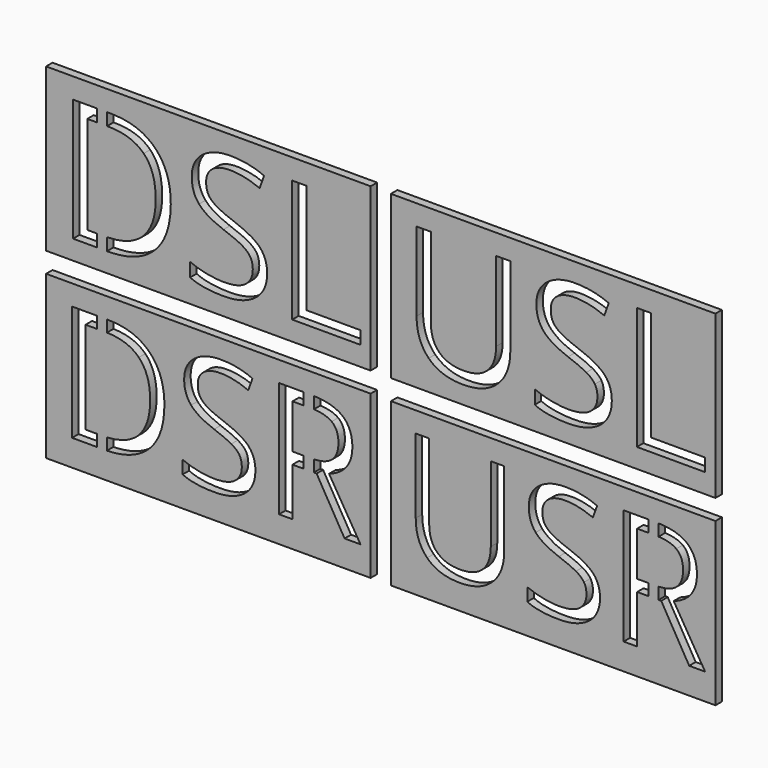
from build123d import *

# Parameters (mm, degrees)
F0_W     = 2.9770169103
F0_H     = 30.6202659856
F0_W_2   = 3.175
F0_H_2   = 3.8589924256
F0_H_3   = 3.223656861
F0_H_4   = 6.0714814162
F1_DEPTH = 2.54
F0_W_3   = 101.6
F0_H_5   = 50.8
F0_H_6   = 6.3803746476
F0_W_4   = 3.520326792
F0_H_7   = 28.909238317
F0_W_5   = 3.5098719441
F0_H_8   = 13.8368326958
F0_H_9   = 1.0552398543
F0_H_10  = 1.0559791915
F0_W_6   = 3.5678618651
F0_H_11  = 13.8363557305


with BuildPart() as f1:
    # F0 (on Front) → F1 (new body)
    with BuildSketch(Plane.XZ):
        with BuildLine():
            Line((-104.775, 53.975), (-104.775, 3.175))
            Line((-104.775, 3.175), (-88.9, 3.175))
            Line((-88.9, 3.175), (-88.9, 9.2464814162))
            Line((-88.9, 9.2464814162), (-96.3316364277, 9.2464814162))
            Line((-96.3316364277, 9.2464814162), (-96.3316364277, 47.576343139))
            Line((-96.3316364277, 47.576343139), (-88.9, 47.576343139))
            Line((-88.9, 47.576343139), (-88.9, 50.8))
            Line((-88.9, 50.8), (-85.725, 50.8))
            Line((-85.725, 50.8), (-85.725, 47.576343139))
            Line((-85.725, 47.576343139), (-84.5868768716, 47.576343139))
            add(Edge.make_bspline(
                [(-84.5868768716, 47.576343139), (-75.644081381, 47.576343139), (-70.6903095825, 42.6225713405)],
                knots=[0, 0, 0, 1, 1, 1], degree=2))
            add(Edge.make_bspline(
                [(-70.6903095825, 42.6225713405), (-65.736537784, 37.668799542), (-65.736537784, 28.7763387352)],
                knots=[0, 0, 0, 1, 1, 1], degree=2))
            add(Edge.make_bspline(
                [(-65.736537784, 28.7763387352), (-65.736537784, 19.2882508367), (-70.8874537608, 14.2673661265)],
                knots=[0, 0, 0, 1, 1, 1], degree=2))
            add(Edge.make_bspline(
                [(-70.8874537608, 14.2673661265), (-76.0383697375, 9.2464814162), (-85.7110181434, 9.2464814162)],
                knots=[0, 0, 0, 1, 1, 1], degree=2))
            Line((-85.7110181434, 9.2464814162), (-85.725, 9.2464814162))
            Line((-85.725, 9.2464814162), (-85.725, 3.175))
            Line((-85.725, 3.175), (-3.175, 3.175))
            Line((-3.175, 3.175), (-3.175, 53.975))
            Line((-3.175, 53.975), (-104.775, 53.975))
        make_face()
        with BuildLine():
            add(Edge.make_bspline(
                [(-37.8259556104, 25.8401488462), (-35.5608948388, 23.3737493394), (-35.5608948388, 19.4476440021)],
                knots=[0, 0, 0, 1, 1, 1], degree=2))
            add(Edge.make_bspline(
                [(-35.5608948388, 19.4476440021), (-35.5608948388, 14.389008279), (-39.2311322001, 11.5534877576)],
                knots=[0, 0, 0, 1, 1, 1], degree=2))
            add(Edge.make_bspline(
                [(-39.2311322001, 11.5534877576), (-42.9013695614, 8.7179672362), (-49.1932050379, 8.7179672362)],
                knots=[0, 0, 0, 1, 1, 1], degree=2))
            add(Edge.make_bspline(
                [(-49.1932050379, 8.7179672362), (-56.0051655804, 8.7179672362), (-59.6795974987, 10.4796811696)],
                knots=[0, 0, 0, 1, 1, 1], degree=2))
            Line((-59.6795974987, 10.4796811696), (-59.6795974987, 14.7749075216))
            add(Edge.make_bspline(
                [(-59.6795974987, 14.7749075216), (-57.3138673595, 13.7849920733), (-54.5370706359, 13.2061432094)],
                knots=[0, 0, 0, 1, 1, 1], degree=2))
            add(Edge.make_bspline(
                [(-54.5370706359, 13.2061432094), (-51.7602739123, 12.6272943456), (-49.0338118725, 12.6272943456)],
                knots=[0, 0, 0, 1, 1, 1], degree=2))
            add(Edge.make_bspline(
                [(-49.0338118725, 12.6272943456), (-44.5791923551, 12.6272943456), (-42.3225206976, 14.3177008103)],
                knots=[0, 0, 0, 1, 1, 1], degree=2))
            add(Edge.make_bspline(
                [(-42.3225206976, 14.3177008103), (-40.06584904, 16.008107275), (-40.06584904, 19.0281883037)],
                knots=[0, 0, 0, 1, 1, 1], degree=2))
            add(Edge.make_bspline(
                [(-40.06584904, 19.0281883037), (-40.06584904, 21.0164083143), (-40.867009424, 22.2873590805)],
                knots=[0, 0, 0, 1, 1, 1], degree=2))
            add(Edge.make_bspline(
                [(-40.867009424, 22.2873590805), (-41.668169808, 23.5583098467), (-43.54313678, 24.6363109917)],
                knots=[0, 0, 0, 1, 1, 1], degree=2))
            add(Edge.make_bspline(
                [(-43.54313678, 24.6363109917), (-45.418103752, 25.7143121367), (-49.2435397217, 27.0733485996)],
                knots=[0, 0, 0, 1, 1, 1], degree=2))
            add(Edge.make_bspline(
                [(-49.2435397217, 27.0733485996), (-54.5874053197, 28.9860665845), (-56.8818279901, 31.6076646997)],
                knots=[0, 0, 0, 1, 1, 1], degree=2))
            add(Edge.make_bspline(
                [(-56.8818279901, 31.6076646997), (-59.1762506606, 34.2292628149), (-59.1762506606, 38.4489871411)],
                knots=[0, 0, 0, 1, 1, 1], degree=2))
            add(Edge.make_bspline(
                [(-59.1762506606, 38.4489871411), (-59.1762506606, 42.8784393165), (-55.849966972, 45.5000374317)],
                knots=[0, 0, 0, 1, 1, 1], degree=2))
            add(Edge.make_bspline(
                [(-55.849966972, 45.5000374317), (-52.5236832834, 48.1216355469), (-47.0372027479, 48.1216355469)],
                knots=[0, 0, 0, 1, 1, 1], degree=2))
            add(Edge.make_bspline(
                [(-47.0372027479, 48.1216355469), (-41.3242161353, 48.1216355469), (-36.5256429452, 46.0243570548)],
                knots=[0, 0, 0, 1, 1, 1], degree=2))
            Line((-36.5256429452, 46.0243570548), (-37.918235864, 42.1485864013))
            add(Edge.make_bspline(
                [(-37.918235864, 42.1485864013), (-42.6664743703, 44.1368064118), (-47.1462612295, 44.1368064118)],
                knots=[0, 0, 0, 1, 1, 1], degree=2))
            add(Edge.make_bspline(
                [(-47.1462612295, 44.1368064118), (-50.6864673243, 44.1368064118), (-52.6788818918, 42.6183767835)],
                knots=[0, 0, 0, 1, 1, 1], degree=2))
            add(Edge.make_bspline(
                [(-52.6788818918, 42.6183767835), (-54.6712964594, 41.0999471552), (-54.6712964594, 38.3986524573)],
                knots=[0, 0, 0, 1, 1, 1], degree=2))
            add(Edge.make_bspline(
                [(-54.6712964594, 38.3986524573), (-54.6712964594, 36.4104324467), (-53.9372489871, 35.1352871235)],
                knots=[0, 0, 0, 1, 1, 1], degree=2))
            add(Edge.make_bspline(
                [(-53.9372489871, 35.1352871235), (-53.2032015149, 33.8601418002), (-51.4582658094, 32.7989188832)],
                knots=[0, 0, 0, 1, 1, 1], degree=2))
            add(Edge.make_bspline(
                [(-51.4582658094, 32.7989188832), (-49.7133301039, 31.7376959662), (-46.1227893253, 30.454161529)],
                knots=[0, 0, 0, 1, 1, 1], degree=2))
            add(Edge.make_bspline(
                [(-46.1227893253, 30.454161529), (-40.0910163819, 28.306548353), (-37.8259556104, 25.8401488462)],
                knots=[0, 0, 0, 1, 1, 1], degree=2))
        make_face(mode=Mode.SUBTRACT)
        Polygon((-6.35, 9.2464814162), (-27.7170732781, 9.2464814162), (-27.7170732781, 47.576343139), (-23.2624537608, 47.576343139), (-23.2624537608, 13.2816452352), (-6.35, 13.2816452352), align=None, mode=Mode.SUBTRACT)
        with BuildLine():
            Line((-85.725, 43.7173507134), (-85.725, 13.1053700925))
            add(Edge.make_bspline(
                [(-85.725, 13.1053700925), (-78.2950982388, 13.2773469279), (-74.4654108684, 17.0189955082)],
                knots=[0.0459628508, 0.0459628508, 0.0459628508, 1, 1, 1], degree=2))
            add(Edge.make_bspline(
                [(-74.4654108684, 17.0189955082), (-70.4512198344, 20.9409062885), (-70.4512198344, 28.6169455698)],
                knots=[0, 0, 0, 1, 1, 1], degree=2))
            add(Edge.make_bspline(
                [(-70.4512198344, 28.6169455698), (-70.4512198344, 36.1168134578), (-74.2137374494, 39.9170820856)],
                knots=[0, 0, 0, 1, 1, 1], degree=2))
            add(Edge.make_bspline(
                [(-74.2137374494, 39.9170820856), (-77.9762550643, 43.7173507134), (-85.4006209265, 43.7173507134)],
                knots=[0, 0, 0, 1, 1, 1], degree=2))
            Line((-85.4006209265, 43.7173507134), (-85.725, 43.7173507134))
        make_face()
        with BuildLine():
            Line((-88.9, 43.7173507134), (-88.9, 13.0970847278))
            Line((-88.9, 13.0970847278), (-86.4492601726, 13.0970847278))
            add(Edge.make_bspline(
                [(-86.4492601726, 13.0970847278), (-86.0829519586, 13.0970847278), (-85.725, 13.1053700925)],
                knots=[0, 0, 0, 0.0459628508, 0.0459628508, 0.0459628508], degree=2))
            Line((-85.725, 13.1053700925), (-85.725, 43.7173507134))
            Line((-85.725, 43.7173507134), (-88.9, 43.7173507134))
        make_face()
        with Locations((-90.3885084552, 28.4072177206)):
            Rectangle(F0_W, F0_H)
        with Locations((-87.3125, 45.6468469262)):
            Rectangle(F0_W_2, F0_H_2)
        with Locations((-87.3125, 49.1881715695)):
            Rectangle(F0_W_2, F0_H_3)
        with BuildLine():
            Line((-88.9, 13.0970847278), (-88.9, 9.2464814162))
            Line((-88.9, 9.2464814162), (-85.725, 9.2464814162))
            Line((-85.725, 9.2464814162), (-85.725, 13.1053700925))
            add(Edge.make_bspline(
                [(-86.4492601726, 13.0970847278), (-86.0829519586, 13.0970847278), (-85.725, 13.1053700925)],
                knots=[0, 0, 0, 0.0459628508, 0.0459628508, 0.0459628508], degree=2))
            Line((-86.4492601726, 13.0970847278), (-88.9, 13.0970847278))
        make_face()
        with Locations((-87.3125, 6.2107407081)):
            Rectangle(F0_W_2, F0_H_4)
    extrude(amount=F1_DEPTH)


with BuildPart() as f1b:
    # F0 (on Front) → F1, piece 2 (new body)
    with BuildSketch(Plane.XZ):
        with Locations((53.975, 28.575)):
            Rectangle(F0_W_3, F0_H_5)
        with BuildLine():
            Line((36.1061872468, 47.576343139), (40.5608067641, 47.576343139))
            Line((40.5608067641, 47.576343139), (40.5608067641, 22.7781222477))
            add(Edge.make_bspline(
                [(40.5608067641, 22.7781222477), (40.5608067641, 16.2178351242), (36.6011449709, 12.4679011802)],
                knots=[0, 0, 0, 1, 1, 1], degree=2))
            add(Edge.make_bspline(
                [(36.6011449709, 12.4679011802), (32.6414831777, 8.7179672362), (25.7204641536, 8.7179672362)],
                knots=[0, 0, 0, 1, 1, 1], degree=2))
            add(Edge.make_bspline(
                [(25.7204641536, 8.7179672362), (18.7994451295, 8.7179672362), (15.0117601726, 12.4972630791)],
                knots=[0, 0, 0, 1, 1, 1], degree=2))
            add(Edge.make_bspline(
                [(15.0117601726, 12.4972630791), (11.2240752158, 16.276558922), (11.2240752158, 22.8787916153)],
                knots=[0, 0, 0, 1, 1, 1], degree=2))
            Line((11.2240752158, 22.8787916153), (11.2240752158, 47.576343139))
            Line((11.2240752158, 47.576343139), (15.6870838471, 47.576343139))
            Line((15.6870838471, 47.576343139), (15.6870838471, 22.5683943984))
            add(Edge.make_bspline(
                [(15.6870838471, 22.5683943984), (15.6870838471, 17.7698212084), (18.3086819623, 15.198557777)],
                knots=[0, 0, 0, 1, 1, 1], degree=2))
            add(Edge.make_bspline(
                [(18.3086819623, 15.198557777), (20.9302800775, 12.6272943456), (26.0140831425, 12.6272943456)],
                knots=[0, 0, 0, 1, 1, 1], degree=2))
            add(Edge.make_bspline(
                [(26.0140831425, 12.6272943456), (30.8629910164, 12.6272943456), (33.4845891316, 15.2111414479)],
                knots=[0, 0, 0, 1, 1, 1], degree=2))
            add(Edge.make_bspline(
                [(33.4845891316, 15.2111414479), (36.1061872468, 17.7949885503), (36.1061872468, 22.6187290823)],
                knots=[0, 0, 0, 1, 1, 1], degree=2))
            Line((36.1061872468, 22.6187290823), (36.1061872468, 47.576343139))
        make_face(mode=Mode.SUBTRACT)
        with BuildLine():
            add(Edge.make_bspline(
                [(70.0653205919, 25.8401488462), (72.3303813634, 23.3737493394), (72.3303813634, 19.4476440021)],
                knots=[0, 0, 0, 1, 1, 1], degree=2))
            add(Edge.make_bspline(
                [(72.3303813634, 19.4476440021), (72.3303813634, 14.389008279), (68.6601440021, 11.5534877576)],
                knots=[0, 0, 0, 1, 1, 1], degree=2))
            add(Edge.make_bspline(
                [(68.6601440021, 11.5534877576), (64.9899066408, 8.7179672362), (58.6980711643, 8.7179672362)],
                knots=[0, 0, 0, 1, 1, 1], degree=2))
            add(Edge.make_bspline(
                [(58.6980711643, 8.7179672362), (51.8861106218, 8.7179672362), (48.2116787035, 10.4796811696)],
                knots=[0, 0, 0, 1, 1, 1], degree=2))
            Line((48.2116787035, 10.4796811696), (48.2116787035, 14.7749075216))
            add(Edge.make_bspline(
                [(48.2116787035, 14.7749075216), (50.5774088427, 13.7849920733), (53.3542055663, 13.2061432094)],
                knots=[0, 0, 0, 1, 1, 1], degree=2))
            add(Edge.make_bspline(
                [(53.3542055663, 13.2061432094), (56.1310022899, 12.6272943456), (58.8574643298, 12.6272943456)],
                knots=[0, 0, 0, 1, 1, 1], degree=2))
            add(Edge.make_bspline(
                [(58.8574643298, 12.6272943456), (63.3120838471, 12.6272943456), (65.5687555047, 14.3177008103)],
                knots=[0, 0, 0, 1, 1, 1], degree=2))
            add(Edge.make_bspline(
                [(65.5687555047, 14.3177008103), (67.8254271622, 16.008107275), (67.8254271622, 19.0281883037)],
                knots=[0, 0, 0, 1, 1, 1], degree=2))
            add(Edge.make_bspline(
                [(67.8254271622, 19.0281883037), (67.8254271622, 21.0164083143), (67.0242667782, 22.2873590805)],
                knots=[0, 0, 0, 1, 1, 1], degree=2))
            add(Edge.make_bspline(
                [(67.0242667782, 22.2873590805), (66.2231063942, 23.5583098468), (64.3481394222, 24.6363109917)],
                knots=[0, 0, 0, 1, 1, 1], degree=2))
            add(Edge.make_bspline(
                [(64.3481394222, 24.6363109917), (62.4731724502, 25.7143121367), (58.6477364805, 27.0733485996)],
                knots=[0, 0, 0, 1, 1, 1], degree=2))
            add(Edge.make_bspline(
                [(58.6477364805, 27.0733485996), (53.3038708825, 28.9860665845), (51.0094482121, 31.6076646997)],
                knots=[0, 0, 0, 1, 1, 1], degree=2))
            add(Edge.make_bspline(
                [(51.0094482121, 31.6076646997), (48.7150255417, 34.2292628149), (48.7150255417, 38.4489871411)],
                knots=[0, 0, 0, 1, 1, 1], degree=2))
            add(Edge.make_bspline(
                [(48.7150255417, 38.4489871411), (48.7150255417, 42.8784393165), (52.0413092302, 45.5000374317)],
                knots=[0, 0, 0, 1, 1, 1], degree=2))
            add(Edge.make_bspline(
                [(52.0413092302, 45.5000374317), (55.3675929188, 48.1216355469), (60.8540734543, 48.1216355469)],
                knots=[0, 0, 0, 1, 1, 1], degree=2))
            add(Edge.make_bspline(
                [(60.8540734543, 48.1216355469), (66.5670600669, 48.1216355469), (71.365633257, 46.0243570548)],
                knots=[0, 0, 0, 1, 1, 1], degree=2))
            Line((71.365633257, 46.0243570548), (69.9730403382, 42.1485864013))
            add(Edge.make_bspline(
                [(69.9730403382, 42.1485864013), (65.224801832, 44.1368064118), (60.7450149727, 44.1368064118)],
                knots=[0, 0, 0, 1, 1, 1], degree=2))
            add(Edge.make_bspline(
                [(60.7450149727, 44.1368064118), (57.2048088779, 44.1368064118), (55.2123943104, 42.6183767835)],
                knots=[0, 0, 0, 1, 1, 1], degree=2))
            add(Edge.make_bspline(
                [(55.2123943104, 42.6183767835), (53.2199797428, 41.0999471552), (53.2199797428, 38.3986524573)],
                knots=[0, 0, 0, 1, 1, 1], degree=2))
            add(Edge.make_bspline(
                [(53.2199797428, 38.3986524573), (53.2199797428, 36.4104324467), (53.9540272151, 35.1352871235)],
                knots=[0, 0, 0, 1, 1, 1], degree=2))
            add(Edge.make_bspline(
                [(53.9540272151, 35.1352871235), (54.6880746873, 33.8601418002), (56.4330103928, 32.7989188832)],
                knots=[0, 0, 0, 1, 1, 1], degree=2))
            add(Edge.make_bspline(
                [(56.4330103928, 32.7989188832), (58.1779460983, 31.7376959662), (61.7684868769, 30.454161529)],
                knots=[0, 0, 0, 1, 1, 1], degree=2))
            add(Edge.make_bspline(
                [(61.7684868769, 30.454161529), (67.8002598203, 28.306548353), (70.0653205919, 25.8401488462)],
                knots=[0, 0, 0, 1, 1, 1], degree=2))
        make_face(mode=Mode.SUBTRACT)
        Polygon((101.5412762022, 9.2464814162), (80.1742029241, 9.2464814162), (80.1742029241, 47.576343139), (84.6288224414, 47.576343139), (84.6288224414, 13.2816452352), (101.5412762022, 13.2816452352), align=None, mode=Mode.SUBTRACT)
    extrude(amount=F1_DEPTH)


with BuildPart() as f1c:
    # F0 (on Front) → F1, piece 3 (new body)
    with BuildSketch(Plane.XZ):
        with BuildLine():
            Line((-88.9, -9.5553746476), (-88.9, -3.175))
            Line((-88.9, -3.175), (-104.775, -3.175))
            Line((-104.775, -3.175), (-104.775, -53.975))
            Line((-104.775, -53.975), (-3.175, -53.975))
            Line((-3.175, -53.975), (-3.175, -3.175))
            Line((-3.175, -3.175), (-85.725, -3.175))
            Line((-85.725, -3.175), (-85.725, -9.5553746476))
            Line((-85.725, -9.5553746476), (-85.5375519707, -9.5553746476))
            add(Edge.make_bspline(
                [(-85.5375519707, -9.5553746476), (-77.0944703143, -9.5553746476), (-72.4175099784, -14.2323349835)],
                knots=[0, 0, 0, 1, 1, 1], degree=2))
            add(Edge.make_bspline(
                [(-72.4175099784, -14.2323349835), (-67.7405496424, -18.9092953195), (-67.7405496424, -27.3048549403)],
                knots=[0, 0, 0, 1, 1, 1], degree=2))
            add(Edge.make_bspline(
                [(-67.7405496424, -27.3048549403), (-67.7405496424, -36.2627586489), (-72.6036379511, -41.003081699)],
                knots=[0, 0, 0, 1, 1, 1], degree=2))
            add(Edge.make_bspline(
                [(-72.6036379511, -41.003081699), (-77.2313839144, -45.5140034564), (-85.725, -45.7323031949)],
                knots=[0, 0, 0, 0.951606401, 0.951606401, 0.951606401], degree=2))
            Line((-85.725, -45.7323031949), (-85.725, -50.8))
            Line((-85.725, -50.8), (-88.9, -50.8))
            Line((-88.9, -50.8), (-88.9, -45.743404749))
            Line((-88.9, -45.743404749), (-96.6260269416, -45.743404749))
            Line((-96.6260269416, -45.743404749), (-96.6260269416, -9.5553746476))
            Line((-96.6260269416, -9.5553746476), (-88.9, -9.5553746476))
        make_face()
        with BuildLine():
            add(Edge.make_bspline(
                [(-41.389580908, -30.076973683), (-39.2510893065, -32.4055534269), (-39.2510893065, -36.1122722029)],
                knots=[0, 0, 0, 1, 1, 1], degree=2))
            add(Edge.make_bspline(
                [(-39.2510893065, -36.1122722029), (-39.2510893065, -40.8882367796), (-42.7162377349, -43.5653114512)],
                knots=[0, 0, 0, 1, 1, 1], degree=2))
            add(Edge.make_bspline(
                [(-42.7162377349, -43.5653114512), (-46.1813861633, -46.2423861227), (-52.121640612, -46.2423861227)],
                knots=[0, 0, 0, 1, 1, 1], degree=2))
            add(Edge.make_bspline(
                [(-52.121640612, -46.2423861227), (-58.5529560951, -46.2423861227), (-62.0220646932, -44.5791148771)],
                knots=[0, 0, 0, 1, 1, 1], degree=2))
            Line((-62.0220646932, -44.5791148771), (-62.0220646932, -40.5239011734))
            add(Edge.make_bspline(
                [(-62.0220646932, -40.5239011734), (-59.7885290205, -41.4585012067), (-57.1668967238, -42.005004616)],
                knots=[0, 0, 0, 1, 1, 1], degree=2))
            add(Edge.make_bspline(
                [(-57.1668967238, -42.005004616), (-54.5452644271, -42.5515080253), (-51.971154166, -42.5515080253)],
                knots=[0, 0, 0, 1, 1, 1], degree=2))
            add(Edge.make_bspline(
                [(-51.971154166, -42.5515080253), (-47.7654540163, -42.5515080253), (-45.634882754, -40.9555596634)],
                knots=[0, 0, 0, 1, 1, 1], degree=2))
            add(Edge.make_bspline(
                [(-45.634882754, -40.9555596634), (-43.5043114918, -39.3596113015), (-43.5043114918, -36.5082891661)],
                knots=[0, 0, 0, 1, 1, 1], degree=2))
            add(Edge.make_bspline(
                [(-43.5043114918, -36.5082891661), (-43.5043114918, -34.6311687603), (-44.2607038916, -33.4312373617)],
                knots=[0, 0, 0, 1, 1, 1], degree=2))
            add(Edge.make_bspline(
                [(-44.2607038916, -33.4312373617), (-45.0170962914, -32.2313059631), (-46.7872921171, -31.2135423675)],
                knots=[0, 0, 0, 1, 1, 1], degree=2))
            add(Edge.make_bspline(
                [(-46.7872921171, -31.2135423675), (-48.5574879428, -30.195778772), (-52.1691626476, -28.9126838111)],
                knots=[0, 0, 0, 1, 1, 1], degree=2))
            add(Edge.make_bspline(
                [(-52.1691626476, -28.9126838111), (-57.2144187594, -27.1068464586), (-59.3806315483, -24.6317404384)],
                knots=[0, 0, 0, 1, 1, 1], degree=2))
            add(Edge.make_bspline(
                [(-59.3806315483, -24.6317404384), (-61.5468443373, -22.1566344181), (-61.5468443373, -18.1727037678)],
                knots=[0, 0, 0, 1, 1, 1], degree=2))
            add(Edge.make_bspline(
                [(-61.5468443373, -18.1727037678), (-61.5468443373, -13.9907646359), (-58.4064298187, -11.5156586156)],
                knots=[0, 0, 0, 1, 1, 1], degree=2))
            add(Edge.make_bspline(
                [(-58.4064298187, -11.5156586156), (-55.2660153002, -9.0405525954), (-50.0861134209, -9.0405525954)],
                knots=[0, 0, 0, 1, 1, 1], degree=2))
            add(Edge.make_bspline(
                [(-50.0861134209, -9.0405525954), (-44.6923623815, -9.0405525954), (-40.161928322, -11.0206374116)],
                knots=[0, 0, 0, 1, 1, 1], degree=2))
            Line((-40.161928322, -11.0206374116), (-41.4767046399, -14.679834152))
            add(Edge.make_bspline(
                [(-41.4767046399, -14.679834152), (-45.9596166639, -12.8027137462), (-50.1890778314, -12.8027137462)],
                knots=[0, 0, 0, 1, 1, 1], degree=2))
            add(Edge.make_bspline(
                [(-50.1890778314, -12.8027137462), (-53.5314610012, -12.8027137462), (-55.4125415766, -14.2362951531)],
                knots=[0, 0, 0, 1, 1, 1], degree=2))
            add(Edge.make_bspline(
                [(-55.4125415766, -14.2362951531), (-57.293622152, -15.6698765601), (-57.293622152, -18.2202258034)],
                knots=[0, 0, 0, 1, 1, 1], degree=2))
            add(Edge.make_bspline(
                [(-57.293622152, -18.2202258034), (-57.293622152, -20.0973462092), (-56.6005924663, -21.3012377775)],
                knots=[0, 0, 0, 1, 1, 1], degree=2))
            add(Edge.make_bspline(
                [(-56.6005924663, -21.3012377775), (-55.9075627806, -22.5051293457), (-54.2601322135, -23.5070522627)],
                knots=[0, 0, 0, 1, 1, 1], degree=2))
            add(Edge.make_bspline(
                [(-54.2601322135, -23.5070522627), (-52.6127016464, -24.5089751798), (-49.222796441, -25.7207870873)],
                knots=[0, 0, 0, 1, 1, 1], degree=2))
            add(Edge.make_bspline(
                [(-49.222796441, -25.7207870873), (-43.5280725096, -27.7483939391), (-41.389580908, -30.076973683)],
                knots=[0, 0, 0, 1, 1, 1], degree=2))
        make_face(mode=Mode.SUBTRACT)
        with BuildLine():
            Line((-24.13, -9.5553746476), (-24.13, -6.35))
            Line((-24.13, -6.35), (-20.955, -6.35))
            Line((-20.955, -6.35), (-20.955, -9.5693291658))
            add(Edge.make_bspline(
                [(-20.955, -9.5693291658), (-15.0251548031, -9.7440248397), (-12.0803654582, -12.1057238909)],
                knots=[0.0739703366, 0.0739703366, 0.0739703366, 1, 1, 1], degree=2))
            add(Edge.make_bspline(
                [(-12.0803654582, -12.1057238909), (-8.9003492433, -14.6560731342), (-8.9003492433, -19.7805326386)],
                knots=[0, 0, 0, 1, 1, 1], degree=2))
            add(Edge.make_bspline(
                [(-8.9003492433, -19.7805326386), (-8.9003492433, -26.9563600126), (-16.1791410278, -29.4829482381)],
                knots=[0, 0, 0, 1, 1, 1], degree=2))
            Line((-16.1791410278, -29.4829482381), (-6.35, -45.743404749))
            Line((-6.35, -45.743404749), (-11.3239730584, -45.743404749))
            Line((-11.3239730584, -45.743404749), (-20.0838682854, -30.6947601457))
            Line((-20.0838682854, -30.6947601457), (-20.955, -30.6947601457))
            Line((-20.955, -30.6947601457), (-20.955, -31.75))
            Line((-20.955, -31.75), (-24.13, -31.75))
            Line((-24.13, -31.75), (-24.13, -30.6947601457))
            Line((-24.13, -30.6947601457), (-27.6398719441, -30.6947601457))
            Line((-27.6398719441, -30.6947601457), (-27.6398719441, -45.743404749))
            Line((-27.6398719441, -45.743404749), (-31.8455720938, -45.743404749))
            Line((-31.8455720938, -45.743404749), (-31.8455720938, -9.5553746476))
            Line((-31.8455720938, -9.5553746476), (-24.13, -9.5553746476))
        make_face(mode=Mode.SUBTRACT)
        with Locations((-87.3125, -6.3651873238)):
            Rectangle(F0_W_2, F0_H_6)
        with BuildLine():
            Line((-85.725, -9.5553746476), (-88.9, -9.5553746476))
            Line((-88.9, -9.5553746476), (-88.9, -13.1987307094))
            Line((-88.9, -13.1987307094), (-86.3058248794, -13.1987307094))
            add(Edge.make_bspline(
                [(-85.725, -13.2050187045), (-86.0123829587, -13.1987307094), (-86.3058248794, -13.1987307094)],
                knots=[0.9581365418, 0.9581365418, 0.9581365418, 1, 1, 1], degree=2))
            Line((-85.725, -13.2050187045), (-85.725, -9.5553746476))
        make_face()
        with BuildLine():
            Line((-86.3058248794, -13.1987307094), (-88.9, -13.1987307094))
            Line((-88.9, -13.1987307094), (-88.9, -42.1079690264))
            Line((-88.9, -42.1079690264), (-87.2958672875, -42.1079690264))
            add(Edge.make_bspline(
                [(-87.2958672875, -42.1079690264), (-86.4889598832, -42.1079690264), (-85.725, -42.0653858532)],
                knots=[0, 0, 0, 0.1072398778, 0.1072398778, 0.1072398778], degree=2))
            Line((-85.725, -42.0653858532), (-85.725, -13.2050187045))
            add(Edge.make_bspline(
                [(-85.725, -13.2050187045), (-86.0123829587, -13.1987307094), (-86.3058248794, -13.1987307094)],
                knots=[0.9581365418, 0.9581365418, 0.9581365418, 1, 1, 1], degree=2))
        make_face()
        with Locations((-90.660163396, -27.6533498679)):
            Rectangle(F0_W_4, F0_H_7)
        with BuildLine():
            add(Edge.make_bspline(
                [(-75.7440524696, -16.7866443965), (-79.1476142328, -13.3489331841), (-85.725, -13.2050187045)],
                knots=[0, 0, 0, 0.9581365418, 0.9581365418, 0.9581365418], degree=2))
            Line((-85.725, -13.2050187045), (-85.725, -42.0653858532))
            add(Edge.make_bspline(
                [(-85.725, -42.0653858532), (-79.3651184669, -41.7108856458), (-75.9816626476, -38.4052104201)],
                knots=[0.1072398778, 0.1072398778, 0.1072398778, 1, 1, 1], degree=2))
            add(Edge.make_bspline(
                [(-75.9816626476, -38.4052104201), (-72.1917803093, -34.7024518137), (-72.1917803093, -27.4553413863)],
                knots=[0, 0, 0, 1, 1, 1], degree=2))
            add(Edge.make_bspline(
                [(-72.1917803093, -27.4553413863), (-72.1917803093, -20.3745580835), (-75.7440524696, -16.7866443965)],
                knots=[0, 0, 0, 1, 1, 1], degree=2))
        make_face()
        with BuildLine():
            Line((-87.2958672875, -42.1079690264), (-88.9, -42.1079690264))
            Line((-88.9, -42.1079690264), (-88.9, -45.743404749))
            Line((-88.9, -45.743404749), (-86.5988774322, -45.743404749))
            add(Edge.make_bspline(
                [(-85.725, -45.7323031949), (-86.1569397707, -45.743404749), (-86.5988774322, -45.743404749)],
                knots=[0.951606401, 0.951606401, 0.951606401, 1, 1, 1], degree=2))
            Line((-85.725, -45.7323031949), (-85.725, -42.0653858532))
            add(Edge.make_bspline(
                [(-87.2958672875, -42.1079690264), (-86.4889598832, -42.1079690264), (-85.725, -42.0653858532)],
                knots=[0, 0, 0, 0.1072398778, 0.1072398778, 0.1072398778], degree=2))
        make_face()
        with BuildLine():
            Line((-86.5988774322, -45.743404749), (-88.9, -45.743404749))
            Line((-88.9, -45.743404749), (-88.9, -50.8))
            Line((-88.9, -50.8), (-85.725, -50.8))
            Line((-85.725, -50.8), (-85.725, -45.7323031949))
            add(Edge.make_bspline(
                [(-85.725, -45.7323031949), (-86.1569397707, -45.743404749), (-86.5988774322, -45.743404749)],
                knots=[0.951606401, 0.951606401, 0.951606401, 1, 1, 1], degree=2))
        make_face()
        with BuildLine():
            Line((-22.1669175121, -13.246252745), (-24.13, -13.246252745))
            Line((-24.13, -13.246252745), (-24.13, -27.0830854409))
            Line((-24.13, -27.0830854409), (-21.86594462, -27.0830854409))
            add(Edge.make_bspline(
                [(-21.86594462, -27.0830854409), (-21.3973264609, -27.0830854409), (-20.955, -27.0634654257)],
                knots=[0, 0, 0, 0.1052783363, 0.1052783363, 0.1052783363], degree=2))
            Line((-20.955, -27.0634654257), (-20.955, -13.2748683015))
            add(Edge.make_bspline(
                [(-20.955, -13.2748683015), (-21.5377801553, -13.246252745), (-22.1669175121, -13.246252745)],
                knots=[0.8655953768, 0.8655953768, 0.8655953768, 1, 1, 1], degree=2))
        make_face()
        with BuildLine():
            Line((-21.9213869948, -9.5553746476), (-24.13, -9.5553746476))
            Line((-24.13, -9.5553746476), (-24.13, -13.246252745))
            Line((-24.13, -13.246252745), (-22.1669175121, -13.246252745))
            add(Edge.make_bspline(
                [(-20.955, -13.2748683015), (-21.5377801553, -13.246252745), (-22.1669175121, -13.246252745)],
                knots=[0.8655953768, 0.8655953768, 0.8655953768, 1, 1, 1], degree=2))
            Line((-20.955, -13.2748683015), (-20.955, -9.5693291658))
            add(Edge.make_bspline(
                [(-21.9213869948, -9.5553746476), (-21.4286701888, -9.5553746476), (-20.955, -9.5693291658)],
                knots=[0, 0, 0, 0.0739703366, 0.0739703366, 0.0739703366], degree=2))
        make_face()
        with BuildLine():
            Line((-20.955, -6.35), (-24.13, -6.35))
            Line((-24.13, -6.35), (-24.13, -9.5553746476))
            Line((-24.13, -9.5553746476), (-21.9213869948, -9.5553746476))
            add(Edge.make_bspline(
                [(-21.9213869948, -9.5553746476), (-21.4286701888, -9.5553746476), (-20.955, -9.5693291658)],
                knots=[0, 0, 0, 0.0739703366, 0.0739703366, 0.0739703366], degree=2))
            Line((-20.955, -9.5693291658), (-20.955, -6.35))
        make_face()
        with BuildLine():
            Line((-21.86594462, -27.0830854409), (-24.13, -27.0830854409))
            Line((-24.13, -27.0830854409), (-24.13, -30.6947601457))
            Line((-24.13, -30.6947601457), (-20.955, -30.6947601457))
            Line((-20.955, -30.6947601457), (-20.955, -27.0634654257))
            add(Edge.make_bspline(
                [(-21.86594462, -27.0830854409), (-21.3973264609, -27.0830854409), (-20.955, -27.0634654257)],
                knots=[0, 0, 0, 0.1052783363, 0.1052783363, 0.1052783363], degree=2))
        make_face()
        with Locations((-25.8849359721, -20.1646690929)):
            Rectangle(F0_W_5, F0_H_8)
        with BuildLine():
            add(Edge.make_bspline(
                [(-15.3712664228, -14.830320598), (-17.2017674392, -13.4591587879), (-20.955, -13.2748683015)],
                knots=[0, 0, 0, 0.8655953768, 0.8655953768, 0.8655953768], degree=2))
            Line((-20.955, -13.2748683015), (-20.955, -27.0634654257))
            add(Edge.make_bspline(
                [(-20.955, -27.0634654257), (-17.1958309162, -26.8967221694), (-15.3356248961, -25.3128896151)],
                knots=[0.1052783363, 0.1052783363, 0.1052783363, 1, 1, 1], degree=2))
            add(Edge.make_bspline(
                [(-15.3356248961, -25.3128896151), (-13.256535839, -23.5426937894), (-13.256535839, -20.002302138)],
                knots=[0, 0, 0, 1, 1, 1], degree=2))
            add(Edge.make_bspline(
                [(-13.256535839, -20.002302138), (-13.256535839, -16.414388451), (-15.3712664228, -14.830320598)],
                knots=[0, 0, 0, 1, 1, 1], degree=2))
        make_face()
        with Locations((-22.5425, -31.2223800728)):
            Rectangle(F0_W_2, F0_H_9)
    extrude(amount=F1_DEPTH)


with BuildPart() as f1d:
    # F0 (on Front) → F1, piece 4 (new body)
    with BuildSketch(Plane.XZ):
        with Locations((53.975, -28.575)):
            Rectangle(F0_W_3, F0_H_5)
        with BuildLine():
            Line((34.4424749721, -9.5553639998), (38.6480301483, -9.5553639998))
            Line((38.6480301483, -9.5553639998), (38.6480301483, -32.9670798209))
            add(Edge.make_bspline(
                [(38.6480301483, -32.9670798209), (38.6480301483, -39.1605716247), (34.9097588805, -42.7008412364)],
                knots=[0, 0, 0, 1, 1, 1], degree=2))
            add(Edge.make_bspline(
                [(34.9097588805, -42.7008412364), (31.1714876128, -46.241110848), (24.6374329604, -46.241110848)],
                knots=[0, 0, 0, 1, 1, 1], degree=2))
            add(Edge.make_bspline(
                [(24.6374329604, -46.241110848), (18.103378308, -46.241110848), (14.5274683983, -42.6731210045)],
                knots=[0, 0, 0, 1, 1, 1], degree=2))
            add(Edge.make_bspline(
                [(14.5274683983, -42.6731210045), (10.9515584885, -39.105131161), (10.9515584885, -32.872039026)],
                knots=[0, 0, 0, 1, 1, 1], degree=2))
            Line((10.9515584885, -32.872039026), (10.9515584885, -9.5553639998))
            Line((10.9515584885, -9.5553639998), (15.165033731, -9.5553639998))
            Line((15.165033731, -9.5553639998), (15.165033731, -33.165081477))
            add(Edge.make_bspline(
                [(15.165033731, -33.165081477), (15.165033731, -37.6953593693), (17.6400544327, -40.1228596735)],
                knots=[0, 0, 0, 1, 1, 1], degree=2))
            add(Edge.make_bspline(
                [(17.6400544327, -40.1228596735), (20.1150751343, -42.5503599777), (24.914635279, -42.5503599777)],
                knots=[0, 0, 0, 1, 1, 1], degree=2))
            add(Edge.make_bspline(
                [(24.914635279, -42.5503599777), (29.4924335688, -42.5503599777), (31.9674542704, -40.1109795742)],
                knots=[0, 0, 0, 1, 1, 1], degree=2))
            add(Edge.make_bspline(
                [(31.9674542704, -40.1109795742), (34.4424749721, -37.6715991706), (34.4424749721, -33.1175610796)],
                knots=[0, 0, 0, 1, 1, 1], degree=2))
            Line((34.4424749721, -33.1175610796), (34.4424749721, -9.5553639998))
        make_face(mode=Mode.SUBTRACT)
        with BuildLine():
            add(Edge.make_bspline(
                [(66.502903133, -30.0762556414), (68.6413210193, -32.4047551175), (68.6413210193, -36.1113461203)],
                knots=[0, 0, 0, 1, 1, 1], degree=2))
            add(Edge.make_bspline(
                [(68.6413210193, -36.1113461203), (68.6413210193, -40.8871460662), (65.1762920369, -43.5641284571)],
                knots=[0, 0, 0, 1, 1, 1], degree=2))
            add(Edge.make_bspline(
                [(65.1762920369, -43.5641284571), (61.7112630546, -46.241110848), (55.7712133707, -46.241110848)],
                knots=[0, 0, 0, 1, 1, 1], degree=2))
            add(Edge.make_bspline(
                [(55.7712133707, -46.241110848), (49.3401195795, -46.241110848), (45.871130564, -44.5778969365)],
                knots=[0, 0, 0, 1, 1, 1], degree=2))
            Line((45.871130564, -44.5778969365), (45.871130564, -40.5228230189))
            add(Edge.make_bspline(
                [(45.871130564, -40.5228230189), (48.1045892452, -41.4573908359), (50.7261311724, -42.0038754068)],
                knots=[0, 0, 0, 1, 1, 1], degree=2))
            add(Edge.make_bspline(
                [(50.7261311724, -42.0038754068), (53.3476730996, -42.5503599777), (55.9216946293, -42.5503599777)],
                knots=[0, 0, 0, 1, 1, 1], degree=2))
            add(Edge.make_bspline(
                [(55.9216946293, -42.5503599777), (60.1272498056, -42.5503599777), (62.2577476255, -40.9544666293)],
                knots=[0, 0, 0, 1, 1, 1], degree=2))
            add(Edge.make_bspline(
                [(62.2577476255, -40.9544666293), (64.3882454455, -39.3585732809), (64.3882454455, -36.5073494326)],
                knots=[0, 0, 0, 1, 1, 1], degree=2))
            add(Edge.make_bspline(
                [(64.3882454455, -36.5073494326), (64.3882454455, -34.6302937324), (63.6318791191, -33.4304036963)],
                knots=[0, 0, 0, 1, 1, 1], degree=2))
            add(Edge.make_bspline(
                [(63.6318791191, -33.4304036963), (62.8755127927, -32.2305136601), (61.1053779869, -31.2127851476)],
                knots=[0, 0, 0, 1, 1, 1], degree=2))
            add(Edge.make_bspline(
                [(61.1053779869, -31.2127851476), (59.335243181, -30.1950566351), (55.7236929732, -28.9120059033)],
                knots=[0, 0, 0, 1, 1, 1], degree=2))
            add(Edge.make_bspline(
                [(55.7236929732, -28.9120059033), (50.6786107749, -27.1062307994), (48.5124726568, -24.6312100977)],
                knots=[0, 0, 0, 1, 1, 1], degree=2))
            add(Edge.make_bspline(
                [(48.5124726568, -24.6312100977), (46.3463345387, -22.1561893961), (46.3463345387, -18.1723960747)],
                knots=[0, 0, 0, 1, 1, 1], degree=2))
            add(Edge.make_bspline(
                [(46.3463345387, -18.1723960747), (46.3463345387, -13.9906010972), (49.486640805, -11.5155803955)],
                knots=[0, 0, 0, 1, 1, 1], degree=2))
            add(Edge.make_bspline(
                [(49.486640805, -11.5155803955), (52.6269470713, -9.0405596939), (57.8066703957, -9.0405596939)],
                knots=[0, 0, 0, 1, 1, 1], degree=2))
            add(Edge.make_bspline(
                [(57.8066703957, -9.0405596939), (63.2002355087, -9.0405596939), (67.730513401, -11.0205762552)],
                knots=[0, 0, 0, 1, 1, 1], degree=2))
            Line((67.730513401, -11.0205762552), (66.4157824043, -14.6796468605))
            add(Edge.make_bspline(
                [(66.4157824043, -14.6796468605), (61.9330249095, -12.8025911604), (57.7037095345, -12.8025911604)],
                knots=[0, 0, 0, 1, 1, 1], degree=2))
            add(Edge.make_bspline(
                [(57.7037095345, -12.8025911604), (54.361441579, -12.8025911604), (52.4804258457, -14.2361231508)],
                knots=[0, 0, 0, 1, 1, 1], degree=2))
            add(Edge.make_bspline(
                [(52.4804258457, -14.2361231508), (50.5994101125, -15.6696551412), (50.5994101125, -18.2199164722)],
                knots=[0, 0, 0, 1, 1, 1], degree=2))
            add(Edge.make_bspline(
                [(50.5994101125, -18.2199164722), (50.5994101125, -20.0969721723), (51.2924159089, -21.3008222416)],
                knots=[0, 0, 0, 1, 1, 1], degree=2))
            add(Edge.make_bspline(
                [(51.2924159089, -21.3008222416), (51.9854217054, -22.5046723109), (53.6327954844, -23.5065606909)],
                knots=[0, 0, 0, 1, 1, 1], degree=2))
            add(Edge.make_bspline(
                [(53.6327954844, -23.5065606909), (55.2801692634, -24.5084490709), (58.6699576164, -25.7202192065)],
                knots=[0, 0, 0, 1, 1, 1], degree=2))
            add(Edge.make_bspline(
                [(58.6699576164, -25.7202192065), (64.3644852468, -27.7477561653), (66.502903133, -30.0762556414)],
                knots=[0, 0, 0, 1, 1, 1], degree=2))
        make_face(mode=Mode.SUBTRACT)
        with BuildLine():
            Line((83.82, -9.5553639998), (83.82, -6.35))
            Line((83.82, -6.35), (86.995, -6.35))
            Line((86.995, -6.35), (86.995, -9.5710881947))
            add(Edge.make_bspline(
                [(86.995, -9.5710881947), (92.8808945972, -9.7556158567), (95.8111082737, -12.1056253308)],
                knots=[0.0785220928, 0.0785220928, 0.0785220928, 1, 1, 1], degree=2))
            add(Edge.make_bspline(
                [(95.8111082737, -12.1056253308), (98.9910148712, -14.6558866618), (98.9910148712, -19.7801695225)],
                knots=[0, 0, 0, 1, 1, 1], degree=2))
            add(Edge.make_bspline(
                [(98.9910148712, -19.7801695225), (98.9910148712, -26.9557495407), (91.7124739918, -29.482250673)],
                knots=[0, 0, 0, 1, 1, 1], degree=2))
            Line((91.7124739918, -29.482250673), (101.5412762022, -45.7421466746))
            Line((101.5412762022, -45.7421466746), (96.5674746002, -45.7421466746))
            Line((96.5674746002, -45.7421466746), (87.8078813329, -30.6940208085))
            Line((87.8078813329, -30.6940208085), (86.995, -30.6940208085))
            Line((86.995, -30.6940208085), (86.995, -31.75))
            Line((86.995, -31.75), (83.82, -31.75))
            Line((83.82, -31.75), (83.82, -30.6940208085))
            Line((83.82, -30.6940208085), (80.2521381349, -30.6940208085))
            Line((80.2521381349, -30.6940208085), (80.2521381349, -45.7421466746))
            Line((80.2521381349, -45.7421466746), (76.0465829586, -45.7421466746))
            Line((76.0465829586, -45.7421466746), (76.0465829586, -9.5553639998))
            Line((76.0465829586, -9.5553639998), (83.82, -9.5553639998))
        make_face(mode=Mode.SUBTRACT)
        with Locations((85.4075, -31.2220104043)):
            Rectangle(F0_W_2, F0_H_10)
        with BuildLine():
            Line((86.0258664277, -27.0824706006), (83.82, -27.0824706006))
            Line((83.82, -27.0824706006), (83.82, -30.6940208085))
            Line((83.82, -30.6940208085), (86.995, -30.6940208085))
            Line((86.995, -30.6940208085), (86.995, -27.0601784304))
            add(Edge.make_bspline(
                [(86.0258664277, -27.0824706006), (86.5253694666, -27.0824706006), (86.995, -27.0601784304)],
                knots=[0, 0, 0, 0.1122207082, 0.1122207082, 0.1122207082], degree=2))
        make_face()
        with BuildLine():
            Line((85.7249039104, -13.2461148701), (83.82, -13.2461148701))
            Line((83.82, -13.2461148701), (83.82, -27.0824706006))
            Line((83.82, -27.0824706006), (86.0258664277, -27.0824706006))
            add(Edge.make_bspline(
                [(86.0258664277, -27.0824706006), (86.5253694666, -27.0824706006), (86.995, -27.0601784304)],
                knots=[0, 0, 0, 0.1122207082, 0.1122207082, 0.1122207082], degree=2))
            Line((86.995, -27.0601784304), (86.995, -13.2776655517))
            add(Edge.make_bspline(
                [(86.995, -13.2776655517), (86.3855080072, -13.2461148701), (85.7249039104, -13.2461148701)],
                knots=[0.8588681717, 0.8588681717, 0.8588681717, 1, 1, 1], degree=2))
        make_face()
        with BuildLine():
            Line((85.970425964, -9.5553639998), (83.82, -9.5553639998))
            Line((83.82, -9.5553639998), (83.82, -13.2461148701))
            Line((83.82, -13.2461148701), (85.7249039104, -13.2461148701))
            add(Edge.make_bspline(
                [(86.995, -13.2776655517), (86.3855080072, -13.2461148701), (85.7249039104, -13.2461148701)],
                knots=[0.8588681717, 0.8588681717, 0.8588681717, 1, 1, 1], degree=2))
            Line((86.995, -13.2776655517), (86.995, -9.5710881947))
            add(Edge.make_bspline(
                [(85.970425964, -9.5553639998), (86.4934440125, -9.5553639998), (86.995, -9.5710881947)],
                knots=[0, 0, 0, 0.0785220928, 0.0785220928, 0.0785220928], degree=2))
        make_face()
        with BuildLine():
            Line((86.995, -6.35), (83.82, -6.35))
            Line((83.82, -6.35), (83.82, -9.5553639998))
            Line((83.82, -9.5553639998), (85.970425964, -9.5553639998))
            add(Edge.make_bspline(
                [(85.970425964, -9.5553639998), (86.4934440125, -9.5553639998), (86.995, -9.5710881947)],
                knots=[0, 0, 0, 0.0785220928, 0.0785220928, 0.0785220928], degree=2))
            Line((86.995, -9.5710881947), (86.995, -6.35))
        make_face()
        with Locations((82.0360690674, -20.1642927354)):
            Rectangle(F0_W_6, F0_H_11)
        with BuildLine():
            add(Edge.make_bspline(
                [(92.5203207488, -14.8301281192), (90.704108567, -13.469669556), (86.995, -13.2776655517)],
                knots=[0, 0, 0, 0.8588681717, 0.8588681717, 0.8588681717], degree=2))
            Line((86.995, -13.2776655517), (86.995, -27.0601784304))
            add(Edge.make_bspline(
                [(86.995, -27.0601784304), (90.7102524613, -26.8838248191), (92.5559610469, -25.3123357948)],
                knots=[0.1122207082, 0.1122207082, 0.1122207082, 1, 1, 1], degree=2))
            add(Edge.make_bspline(
                [(92.5559610469, -25.3123357948), (94.6349784363, -23.542200989), (94.6349784363, -20.0019313774)],
                knots=[0, 0, 0, 1, 1, 1], degree=2))
            add(Edge.make_bspline(
                [(94.6349784363, -20.0019313774), (94.6349784363, -16.4141413682), (92.5203207488, -14.8301281192)],
                knots=[0, 0, 0, 1, 1, 1], degree=2))
        make_face()
    extrude(amount=F1_DEPTH)


solid = Compound([f1.part, f1b.part, f1c.part, f1d.part])
